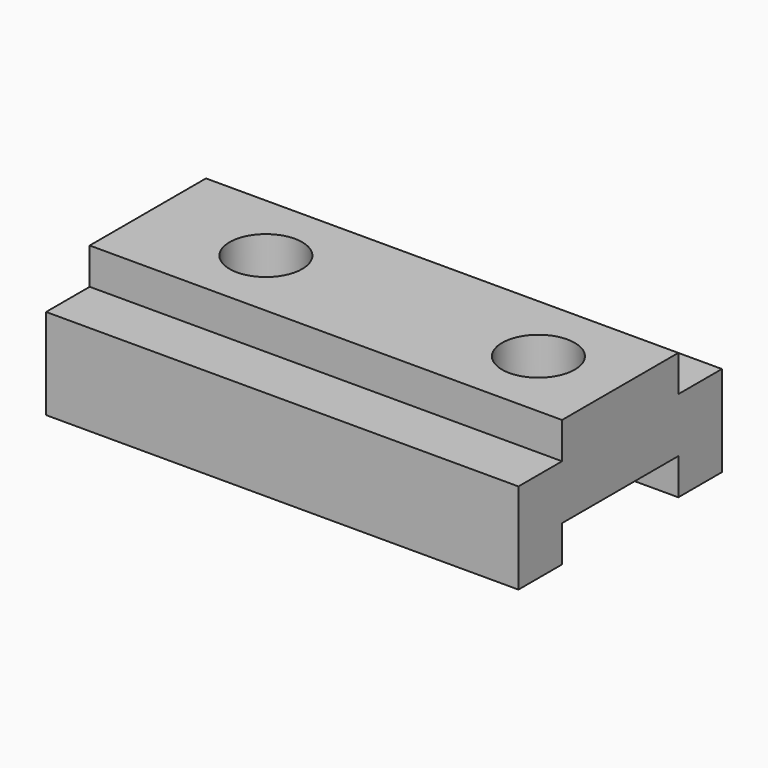
from build123d import *

# Parameters (mm, degrees)
F1_DEPTH = 165.1
F2_W     = 50.8
F2_H     = 12.7
F3_DEPTH = 165.1
F4_R     = 12.7
F5_DEPTH = 31.75


with BuildPart() as f1:
    # F0 (on Right) → F1 (new body)
    with BuildSketch(Plane.YZ):
        Polygon((-88.9, 0), (0, 0), (0, 31.75), (-19.05, 31.75), (-19.05, 44.45), (-69.85, 44.45), (-69.85, 31.75), (-88.9, 31.75), align=None)
    extrude(amount=F1_DEPTH)

    # F2 (on face) → F3 (cut)
    with BuildSketch(Plane.YZ.offset(165.1)):
        with Locations((-44.45, 6.35)):
            Rectangle(F2_W, F2_H)
    extrude(amount=-F3_DEPTH, mode=Mode.SUBTRACT)

    # F4 (on face) → F5 (cut, through all)
    with BuildSketch(Plane.XY.offset(44.45)):
        with Locations((41.275, -44.45)):
            Circle(F4_R)
        with Locations((136.525, -44.45)):
            Circle(F4_R)
    extrude(amount=-F5_DEPTH, mode=Mode.SUBTRACT)


solid = f1.part
